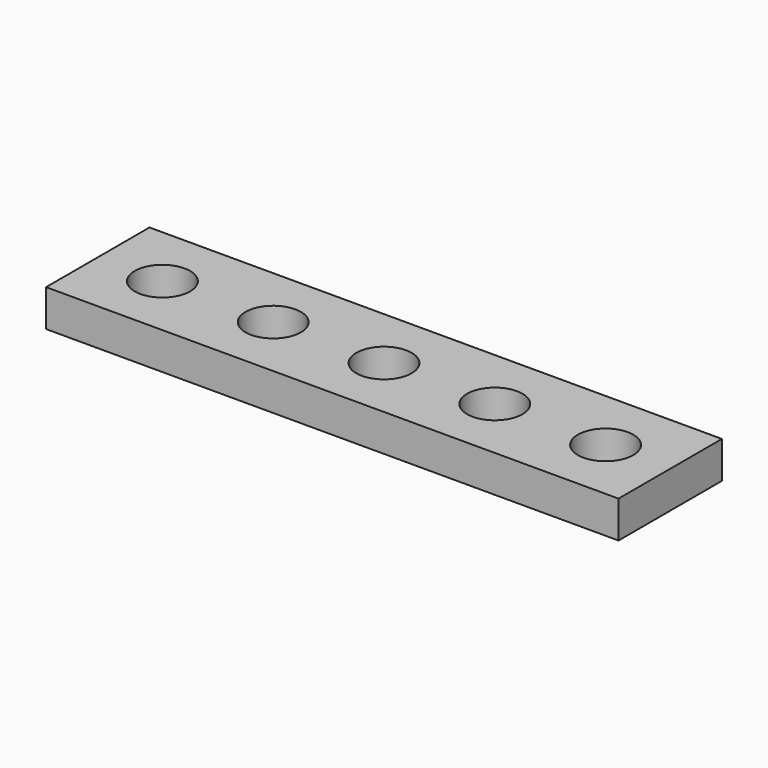
from build123d import *

# Parameters (mm, degrees)
CYLINDER_R     = 1.5
CYLINDER_DEPTH = 2
ARRAY_X_COUNT  = 5
ARRAY_X_PITCH  = 6
BOX_W          = 31
BOX_H          = 7
BOX_DEPTH      = 2


with BuildPart() as array:
    # Cylinder → Cylinder (new body)
    with BuildSketch(Plane(origin=(3.5, 3.5, 0), x_dir=(1, 0, 0), z_dir=(0, 0, 1))):
        Circle(CYLINDER_R)
    extrude(amount=CYLINDER_DEPTH)

    # Array X: Array ×5


with BuildPart() as array_1:
    add(array.part)
    with Locations(*[(i * ARRAY_X_PITCH, 0, 0) for i in range(1, ARRAY_X_COUNT)]):
        add(array.part)


with BuildPart() as cut:
    # Box → Box (new body)
    with BuildSketch(Plane.XY):
        with Locations((15.5, 3.5)):
            Rectangle(BOX_W, BOX_H)
    extrude(amount=BOX_DEPTH)

    # Cut: cut Array
    add(array_1.part, mode=Mode.SUBTRACT)


solid = cut.part
